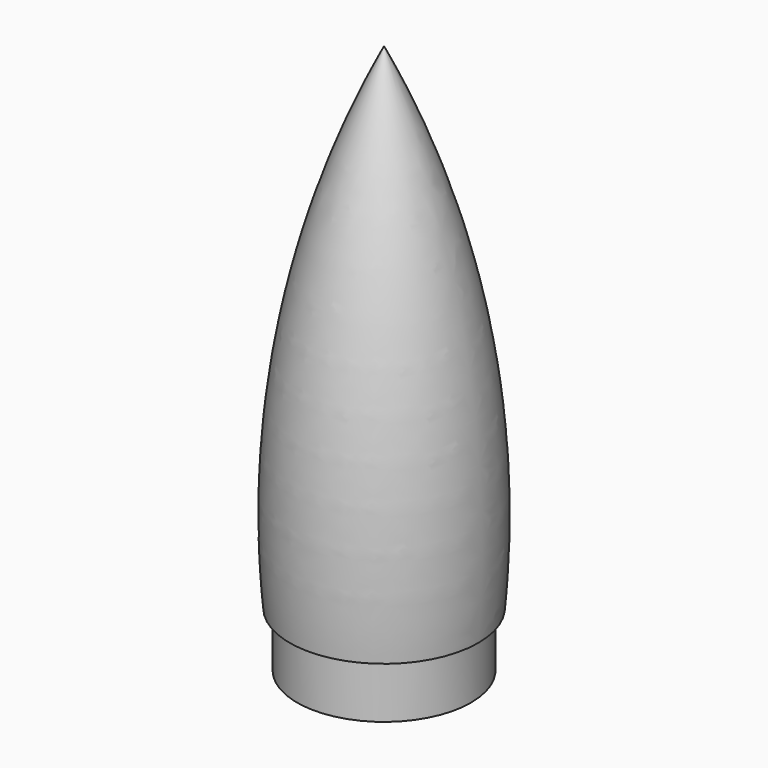
from build123d import *

# Parameters (mm, degrees)
F0_W = 23.75
F0_H = 15


with BuildPart() as f1:
    # F0 (on Front) → F1 (revolve)
    with BuildSketch(Plane.XZ):
        with BuildLine():
            Line((0, 135), (0, 0))
            Line((0, 0), (23.75, 0))
            Line((23.75, 0), (25.75, 0))
            ThreePointArc((25.75, 0), (22.368429, 69.310784), (0, 135))
        make_face()
        with Locations((11.875, -7.5)):
            Rectangle(F0_W, F0_H)
    revolve(axis=Axis((0, 0, 60), (0, 0, -1)))


solid = f1.part
